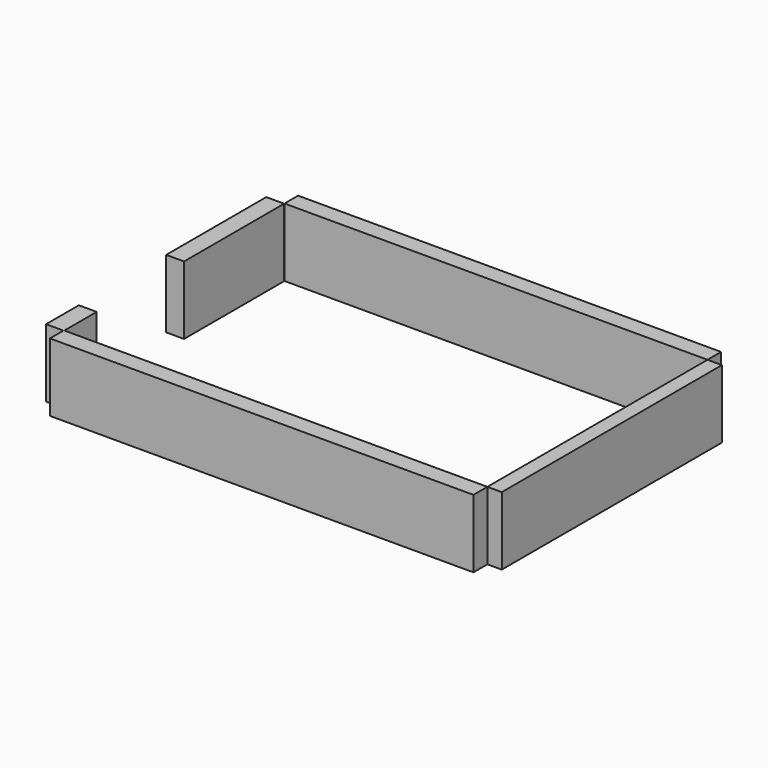
from build123d import *

# Parameters (mm, degrees)
F0_W     = 3100
F0_H     = 124.6838192642
F1_DEPTH = 500
F0_W_2   = 105.7304888964
F0_H_2   = 2016.4431114495
F0_H_3   = 3.5568885505
F0_W_3   = 3.5965681076
F0_W_4   = 131
F0_H_4   = 917.06693694


with BuildPart() as f1:
    # F0 (on Top) → F1 (new body)
    with BuildSketch(Plane.XY):
        with Locations((-1493.7097969055, 2042.6535794884)):
            Rectangle(F0_W, F0_H)
    extrude(amount=F1_DEPTH)


with BuildPart() as f1b:
    # F0 (on Top) → F1, piece 2 (new body)
    with BuildSketch(Plane.XY):
        with Locations((109.1554475427, 972.0901141316)):
            Rectangle(F0_W_2, F0_H_2)
    extrude(amount=F1_DEPTH)


with BuildPart() as f1c:
    # F0 (on Top) → F1, piece 3 (new body)
    with BuildSketch(Plane.XY):
        Polygon((56.2902030945, -163.7482494116), (56.2902030945, -39.6883301437), (-3043.7097969055, -39.6883301437), (-3047.3063650131, -39.6883301437), (-3047.3063650131, -163.7482494116), align=None)
        with Locations((-1493.7097969055, -37.9098858684)):
            Rectangle(F0_W, F0_H_3)
        with Locations((-3045.5080809593, -37.9098858684)):
            Rectangle(F0_W_3, F0_H_3)
        Polygon((-3047.3063650131, -36.1314415932), (-3043.7097969055, -36.1314415932), (-3043.7097969055, 260.3116698563), (-3174.7097969055, 260.3116698563), (-3174.7097969055, -39.6883301437), (-3047.3063650131, -39.6883301437), align=None)
    extrude(amount=F1_DEPTH)


with BuildPart() as f1d:
    # F0 (on Top) → F1, piece 4 (new body)
    with BuildSketch(Plane.XY):
        with Locations((-3109.2097969055, 1518.8451383263)):
            Rectangle(F0_W_4, F0_H_4)
    extrude(amount=F1_DEPTH)


solid = Compound([f1.part, f1b.part, f1c.part, f1d.part])
